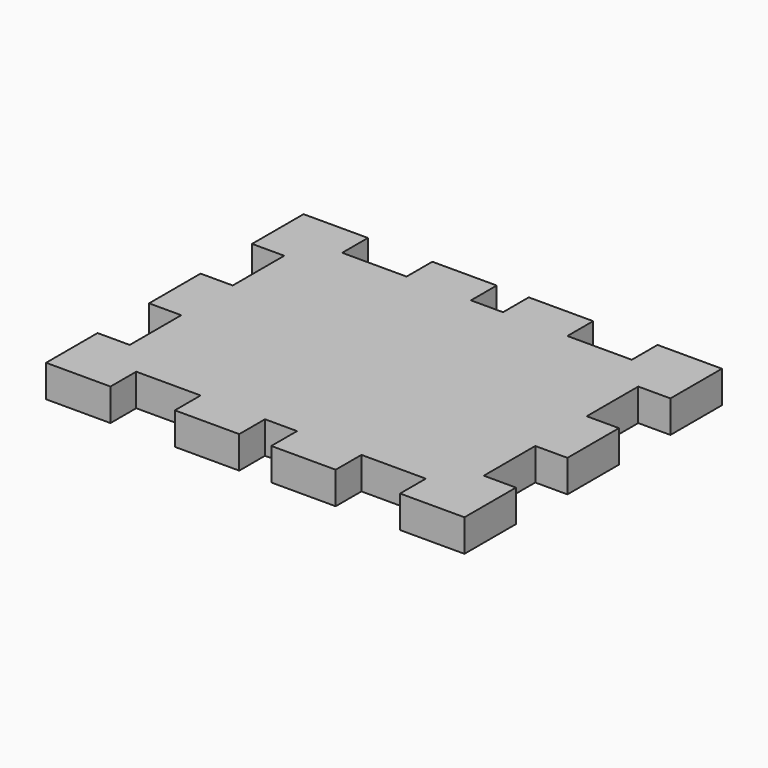
from build123d import *

# Parameters (mm, degrees)
F1_DEPTH = 6.35


with BuildPart() as f1:
    # F0 (on Top) → F1 (new body)
    with BuildSketch(Plane.XY):
        Polygon((12.704291, 0), (0, 0), (0, -12.7), (6.35, -12.7), (6.35, -25.4), (0, -25.4), (0, -38.1), (6.35, -38.1), (6.35, -50.8), (0, -50.8), (0, -63.5), (12.704291, -63.5), (12.704291, -57.15), (25.408583, -57.15), (25.408583, -63.5), (38.112874, -63.5), (38.112874, -57.15), (44.437126, -57.15), (44.437126, -63.5), (57.141417, -63.5), (57.141417, -57.15), (69.845709, -57.15), (69.845709, -63.5), (82.55, -63.5), (82.55, -50.8), (76.2, -50.8), (76.2, -38.1), (82.55, -38.1), (82.55, -25.4), (76.2, -25.4), (76.2, -12.7), (82.55, -12.7), (82.55, 0), (69.845709, 0), (69.845709, -6.35), (57.141417, -6.35), (57.141417, 0), (44.437126, 0), (44.437126, -6.35), (38.112874, -6.35), (38.112874, 0), (25.408583, 0), (25.408583, -6.35), (12.704291, -6.35), align=None)
    extrude(amount=F1_DEPTH)


solid = f1.part
